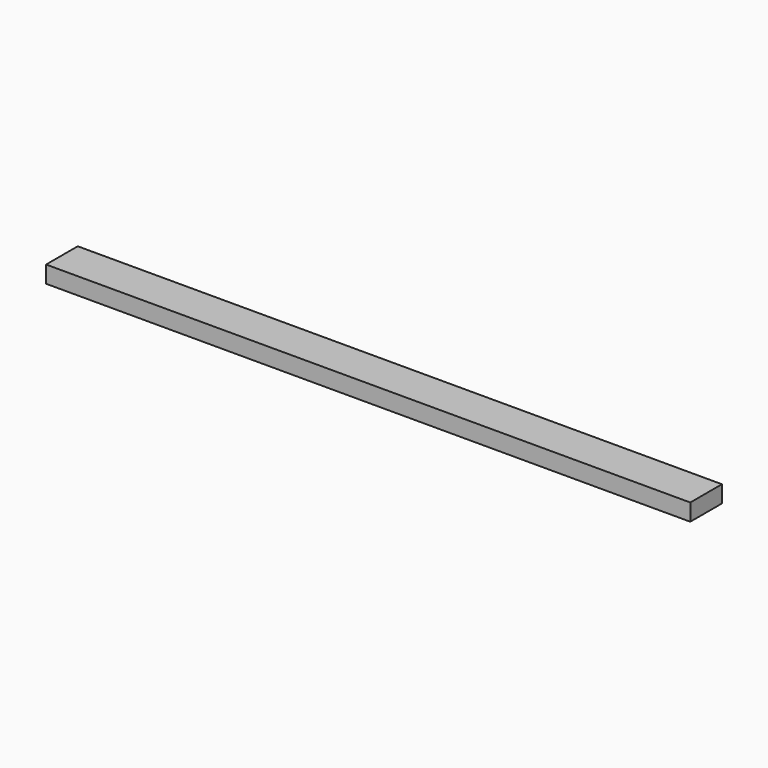
from build123d import *

# Parameters (mm, degrees)
F0_W     = 88.9
F0_H     = 38.1
F1_DEPTH = 1447.8


with BuildPart() as f1:
    # F0 (on Right) → F1 (new body)
    with BuildSketch(Plane.YZ):
        Rectangle(F0_W, F0_H)
        Rectangle(F0_W, F0_H)
    extrude(amount=F1_DEPTH)


solid = f1.part
